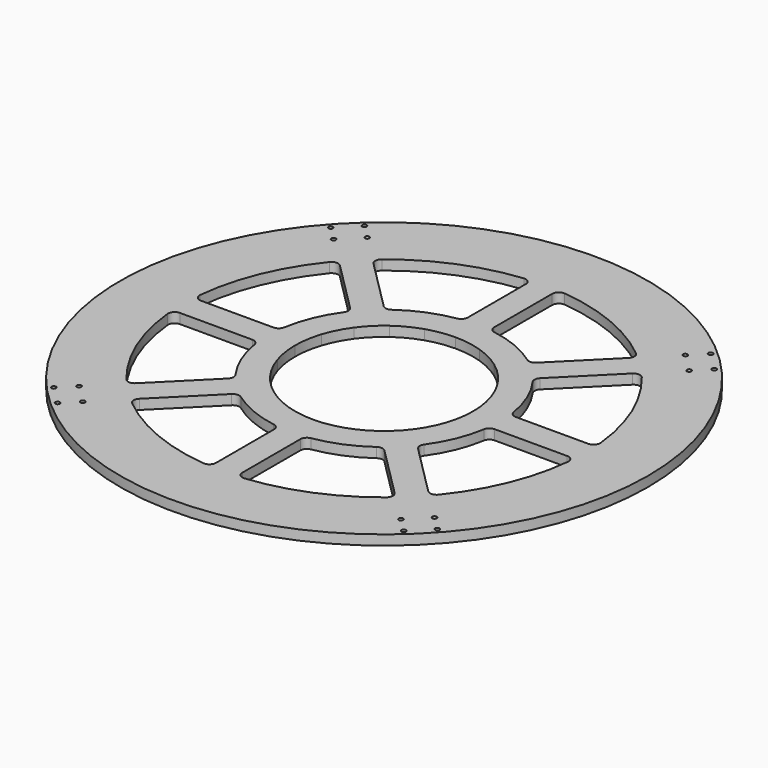
from build123d import *

# Parameters (mm, degrees)
F1_DEPTH = 6.096
F2_D     = 6.5278
F2_DEPTH = 7.62
F2_TIP   = 1.9611489744
F3_D     = 2.9464
F3_DEPTH = 7.62
F3_TIP   = 0.885187864
F4_R     = 254
F5_DEPTH = 9.525
F6_D     = 13.1064
F6_DEPTH = 5.08
F6_TIP   = 3.9375598086
F7_D     = 6.5278
F7_DEPTH = 5.08
F7_TIP   = 1.9611489744
F9_D     = 4.318
F9_DEPTH = 5.08
F9_TIP   = 1.2972580765


with BuildPart() as f1:
    # F0 (on Top) → F1 (new body)
    with BuildSketch(Plane.XY):
        with BuildLine():
            Line((209.55, 0), (218.44, 0))
            ThreePointArc((218.44, 0), (201.8122450818, 83.5933689658), (154.4604052824, 154.4604052824))
            Line((154.4604052824, 154.4604052824), (148.1742259976, 148.1742259976))
            ThreePointArc((148.1742259976, 148.1742259976), (154.4964659286, 141.5699280059), (160.5246130556, 134.6961436098))
            ThreePointArc((160.5246130556, 134.6961436098), (166.247192458, 127.5659574488), (171.6533108808, 120.1929422374))
            ThreePointArc((171.6533108808, 120.1929422374), (199.8513870293, 63.0129002861), (209.55, 0))
        make_face()
        with BuildLine():
            ThreePointArc((154.4604052824, 154.4604052824), (-201.8122450818, -83.5933689658), (218.44, 0))
            Line((218.44, 0), (209.55, 0))
            Line((209.55, 0), (205.74, 0))
            Line((205.74, 0), (199.39, 0))
            Line((199.39, 0), (186.3725, 0))
            Line((186.3725, 0), (186.3725, -6.985))
            ThreePointArc((186.3725, -6.985), (187.1164487758, -8.7810512242), (188.9125, -9.525))
            Line((188.9125, -9.525), (202.841504074, -9.525))
            ThreePointArc((202.841504074, -9.525), (204.6901067558, -10.323084926), (205.3770228749, -12.2158125))
            ThreePointArc((205.3770228749, -12.2158125), (197.0603677414, -59.1283270997), (178.1760665746, -102.87))
            Line((178.1760665746, -102.87), (173.226731392, -100.0125))
            ThreePointArc((173.226731392, -100.0125), (168.6993739487, -107.4733541596), (163.8508876589, -114.7296266811))
            ThreePointArc((163.8508876589, -114.7296266811), (158.6905018918, -121.7675048375), (153.2280397349, -128.5735916276))
            ThreePointArc((153.2280397349, -128.5735916276), (141.4390339068, -141.4390339068), (128.5735916276, -153.2280397349))
            ThreePointArc((128.5735916276, -153.2280397349), (121.7675048375, -158.6905018918), (114.7296266811, -163.8508876589))
            ThreePointArc((114.7296266811, -163.8508876589), (107.4733541596, -168.6993739487), (100.0125, -173.226731392))
            Line((100.0125, -173.226731392), (102.87, -178.1760665746))
            ThreePointArc((102.87, -178.1760665746), (59.1283270997, -197.0603677414), (12.2158125, -205.3770228749))
            ThreePointArc((12.2158125, -205.3770228749), (10.323084926, -204.6901067558), (9.525, -202.841504074))
            Line((9.525, -202.841504074), (9.525, -188.9125))
            ThreePointArc((9.525, -188.9125), (8.7810512242, -187.1164487758), (6.985, -186.3725))
            Line((6.985, -186.3725), (-6.985, -186.3725))
            ThreePointArc((-6.985, -186.3725), (-8.7810512242, -187.1164487758), (-9.525, -188.9125))
            Line((-9.525, -188.9125), (-9.525, -202.841504074))
            ThreePointArc((-9.525, -202.841504074), (-10.323084926, -204.6901067558), (-12.2158125, -205.3770228749))
            ThreePointArc((-12.2158125, -205.3770228749), (-59.1283270997, -197.0603677414), (-102.87, -178.1760665746))
            Line((-102.87, -178.1760665746), (-100.0125, -173.226731392))
            ThreePointArc((-100.0125, -173.226731392), (-107.4733541596, -168.6993739487), (-114.7296266811, -163.8508876589))
            ThreePointArc((-114.7296266811, -163.8508876589), (-121.7675048375, -158.6905018918), (-128.5735916276, -153.2280397349))
            ThreePointArc((-128.5735916276, -153.2280397349), (-141.4390339068, -141.4390339068), (-153.2280397349, -128.5735916276))
            ThreePointArc((-153.2280397349, -128.5735916276), (-158.6905018918, -121.7675048375), (-163.8508876589, -114.7296266811))
            ThreePointArc((-163.8508876589, -114.7296266811), (-168.6993739487, -107.4733541596), (-173.226731392, -100.0125))
            Line((-173.226731392, -100.0125), (-178.1760665746, -102.87))
            ThreePointArc((-178.1760665746, -102.87), (-197.0603677414, -59.1283270997), (-205.3770228749, -12.2158125))
            ThreePointArc((-205.3770228749, -12.2158125), (-204.6901067558, -10.323084926), (-202.841504074, -9.525))
            Line((-202.841504074, -9.525), (-188.9125, -9.525))
            ThreePointArc((-188.9125, -9.525), (-187.1164487758, -8.7810512242), (-186.3725, -6.985))
            Line((-186.3725, -6.985), (-186.3725, 6.985))
            ThreePointArc((-186.3725, 6.985), (-187.1164487758, 8.7810512242), (-188.9125, 9.525))
            Line((-188.9125, 9.525), (-202.841504074, 9.525))
            ThreePointArc((-202.841504074, 9.525), (-204.6901067558, 10.323084926), (-205.3770228749, 12.2158125))
            ThreePointArc((-205.3770228749, 12.2158125), (-197.0603677414, 59.1283270997), (-178.1760665746, 102.87))
            Line((-178.1760665746, 102.87), (-173.226731392, 100.0125))
            ThreePointArc((-173.226731392, 100.0125), (-168.6993739487, 107.4733541596), (-163.8508876589, 114.7296266811))
            ThreePointArc((-163.8508876589, 114.7296266811), (-158.6905018918, 121.7675048375), (-153.2280397349, 128.5735916275))
            ThreePointArc((-153.2280397349, 128.5735916275), (-141.4390339068, 141.4390339068), (-128.5735916276, 153.2280397349))
            ThreePointArc((-128.5735916276, 153.2280397349), (-121.7675048375, 158.6905018918), (-114.7296266811, 163.8508876589))
            ThreePointArc((-114.7296266811, 163.8508876589), (-107.4733541596, 168.6993739487), (-100.0125, 173.226731392))
            Line((-100.0125, 173.226731392), (-102.87, 178.1760665746))
            ThreePointArc((-102.87, 178.1760665746), (-59.1283270997, 197.0603677414), (-12.2158125, 205.3770228749))
            ThreePointArc((-12.2158125, 205.3770228749), (-10.323084926, 204.6901067558), (-9.525, 202.841504074))
            Line((-9.525, 202.841504074), (-9.525, 188.9125))
            ThreePointArc((-9.525, 188.9125), (-8.7810512242, 187.1164487758), (-6.985, 186.3725))
            Line((-6.985, 186.3725), (6.985, 186.3725))
            ThreePointArc((6.985, 186.3725), (8.7810512242, 187.1164487758), (9.525, 188.9125))
            Line((9.525, 188.9125), (9.525, 202.841504074))
            ThreePointArc((9.525, 202.841504074), (10.323084926, 204.6901067558), (12.2158125, 205.3770228749))
            ThreePointArc((12.2158125, 205.3770228749), (59.1283270997, 197.0603677414), (102.87, 178.1760665746))
            Line((102.87, 178.1760665746), (100.0125, 173.226731392))
            ThreePointArc((100.0125, 173.226731392), (107.4733541596, 168.6993739487), (114.7296266811, 163.8508876589))
            Line((114.7296266811, 163.8508876589), (120.1929422374, 171.6533108808))
            ThreePointArc((120.1929422374, 171.6533108808), (127.5659574488, 166.247192458), (134.6961436098, 160.5246130556))
            ThreePointArc((134.6961436098, 160.5246130556), (141.5699280059, 154.4964659286), (148.1742259976, 148.1742259976))
            Line((148.1742259976, 148.1742259976), (154.4604052824, 154.4604052824))
        make_face()
        with BuildLine():
            Line((205.74, 0), (209.55, 0))
            ThreePointArc((209.55, 0), (199.8513870293, 63.0129002861), (171.6533108808, 120.1929422374))
            Line((171.6533108808, 120.1929422374), (163.8508876589, 114.7296266811))
            ThreePointArc((163.8508876589, 114.7296266811), (168.6993739487, 107.4733541596), (173.226731392, 100.0125))
            Line((173.226731392, 100.0125), (178.1760665746, 102.87))
            ThreePointArc((178.1760665746, 102.87), (197.0603677414, 59.1283270997), (205.3770228749, 12.2158125))
            ThreePointArc((205.3770228749, 12.2158125), (204.6901067558, 10.323084926), (202.841504074, 9.525))
            Line((202.841504074, 9.525), (188.9125, 9.525))
            ThreePointArc((188.9125, 9.525), (187.1164487758, 8.7810512242), (186.3725, 6.985))
            Line((186.3725, 6.985), (186.3725, 0))
            Line((186.3725, 0), (199.39, 0))
            Line((199.39, 0), (205.74, 0))
        make_face()
        with BuildLine():
            Line((163.8508876589, 114.7296266811), (171.6533108808, 120.1929422374))
            ThreePointArc((171.6533108808, 120.1929422374), (166.247192458, 127.5659574488), (160.5246130556, 134.6961436098))
            Line((160.5246130556, 134.6961436098), (153.2280397349, 128.5735916276))
            ThreePointArc((153.2280397349, 128.5735916276), (158.6905018918, 121.7675048375), (163.8508876589, 114.7296266811))
        make_face()
        with BuildLine():
            ThreePointArc((160.5246130556, 134.6961436098), (154.4964659286, 141.5699280059), (148.1742259976, 148.1742259976))
            Line((148.1742259976, 148.1742259976), (141.4390339068, 141.4390339068))
            ThreePointArc((141.4390339068, 141.4390339068), (147.4738992954, 135.1349312783), (153.2280397349, 128.5735916276))
            Line((153.2280397349, 128.5735916276), (160.5246130556, 134.6961436098))
        make_face()
        with BuildLine():
            Line((141.4390339068, 141.4390339068), (148.1742259976, 148.1742259976))
            ThreePointArc((148.1742259976, 148.1742259976), (141.5699280059, 154.4964659286), (134.6961436098, 160.5246130556))
            Line((134.6961436098, 160.5246130556), (128.5735916276, 153.2280397349))
            ThreePointArc((128.5735916275, 153.2280397349), (135.1349312783, 147.4738992954), (141.4390339068, 141.4390339068))
        make_face()
        with BuildLine():
            Line((128.5735916276, 153.2280397349), (134.6961436098, 160.5246130556))
            ThreePointArc((134.6961436098, 160.5246130556), (127.5659574488, 166.247192458), (120.1929422374, 171.6533108808))
            Line((120.1929422374, 171.6533108808), (114.7296266811, 163.8508876589))
            ThreePointArc((114.7296266811, 163.8508876589), (121.7675048375, 158.6905018918), (128.5735916275, 153.2280397349))
        make_face()
    extrude(amount=F1_DEPTH)

    # F2
    with Locations(Plane(origin=(0, 0, 0), x_dir=(1, 0, 0), z_dir=(0, 0, -1))):
        with Locations((-171.6533108808, -120.1929422374), (-160.5246130556, -134.6961436098), (-134.6961436098, -160.5246130556), (-120.1929422374, -171.6533108808), (120.1929422374, -171.6533108808), (134.6961436098, -160.5246130556), (160.5246130556, -134.6961436098), (171.6533108808, -120.1929422374), (171.6533108808, 120.1929422374), (160.5246130556, 134.6961436098), (134.6961436098, 160.5246130556), (120.1929422374, 171.6533108808), (-120.1929422374, 171.6533108808), (-134.6961436098, 160.5246130556), (-160.5246130556, 134.6961436098), (-171.6533108808, 120.1929422374)):
            Hole(F2_D / 2, depth=F2_DEPTH)
            with Locations((0, 0, -(F2_DEPTH + F2_TIP / 2))):  # 118° drill point
                Cone(0, F2_D / 2, F2_TIP, mode=Mode.SUBTRACT)

    # F3
    with Locations(Plane(origin=(0, 0, 0), x_dir=(1, 0, 0), z_dir=(0, 0, -1))):
        with Locations((-6.35, -199.39), (-6.35, -189.865), (6.35, -199.39), (6.35, -189.865), (189.865, -6.35), (189.865, 6.35), (199.39, 6.35), (199.39, -6.35), (-199.39, 6.35), (-199.39, -6.35), (-189.865, -6.35), (-189.865, 6.35), (6.35, 199.39), (6.35, 189.865), (-6.35, 189.865), (-6.35, 199.39)):
            Hole(F3_D / 2, depth=F3_DEPTH)
            with Locations((0, 0, -(F3_DEPTH + F3_TIP / 2))):  # 118° drill point
                Cone(0, F3_D / 2, F3_TIP, mode=Mode.SUBTRACT)


with BuildPart() as f5:
    # F4 (on Top) → F5 (new body)
    with BuildSketch(Plane.XY):
        Circle(F4_R)
        with BuildLine():
            ThreePointArc((145.9291619674, 145.9291619674), (190.665638522, 78.9762933543), (206.375, 0))
            ThreePointArc((206.375, 0), (145.9291619674, -145.9291619674), (0, -206.375))
            ThreePointArc((0, -206.375), (-145.9291619674, -145.9291619674), (-206.375, 0))
            ThreePointArc((-206.375, 0), (-145.9291619674, 145.9291619674), (0, 206.375))
            ThreePointArc((0, 206.375), (6.3530109085, 206.2771918497), (12.7, 205.983860108))
            ThreePointArc((12.7, 205.983860108), (78.9762933543, 190.665638522), (136.6723281763, 154.6328404184))
            ThreePointArc((136.6723281763, 154.6328404184), (141.3677440667, 150.3522582554), (145.9291619674, 145.9291619674))
        make_face(mode=Mode.SUBTRACT)
        with BuildLine():
            ThreePointArc((0, 206.375), (-145.9291619674, 145.9291619674), (-206.375, 0))
            Line((-206.375, 0), (-99.10826, 0))
            ThreePointArc((-99.10826, 0), (-97.8880728587, 15.5039476342), (-94.2575564917, 30.6261366229))
            ThreePointArc((-94.2575564917, 30.6261366229), (-88.306106261, 44.9942084857), (-80.1802666229, 58.2543736084))
            ThreePointArc((-80.1802666229, 58.2543736084), (-70.0801227176, 70.0801227176), (-58.2543736084, 80.1802666229))
            ThreePointArc((-58.2543736084, 80.1802666229), (-44.9942084857, 88.306106261), (-30.6261366229, 94.2575564917))
            ThreePointArc((-30.6261366229, 94.2575564917), (-15.5039476342, 97.8880728587), (0, 99.10826))
            Line((0, 99.10826), (0, 206.375))
        make_face()
        with BuildLine():
            ThreePointArc((-186.3538385035, 12.7), (-191.0667512558, 14.794303419), (-192.6709177748, 19.6957627119))
            ThreePointArc((-192.6709177748, 19.6957627119), (-178.9323684591, 74.1162137633), (-150.1659198702, 122.3119051218))
            ThreePointArc((-150.1659198702, 122.3119051218), (-145.5657477427, 124.6434432018), (-140.7523190271, 122.7918067849))
            Line((-140.7523190271, 122.7918067849), (-91.4377357886, 73.4772235464))
            ThreePointArc((-91.4377357886, 73.4772235464), (-89.5986659677, 69.5006655182), (-90.7725582831, 65.2796267373))
            ThreePointArc((-90.7725582831, 65.2796267373), (-103.2973629797, 42.7871687036), (-110.3455582469, 18.0262247684))
            ThreePointArc((-110.3455582469, 18.0262247684), (-112.5002161759, 14.2114324061), (-116.6124860649, 12.7))
            Line((-116.6124860649, 12.7), (-186.3538385035, 12.7))
        make_face(mode=Mode.SUBTRACT)
        with BuildLine():
            ThreePointArc((-122.7918067849, 140.7523190271), (-124.6434432018, 145.5657477427), (-122.3119051218, 150.1659198702))
            ThreePointArc((-122.3119051218, 150.1659198702), (-74.1162137633, 178.9323684591), (-19.6957627119, 192.6709177748))
            ThreePointArc((-19.6957627119, 192.6709177748), (-14.794303419, 191.0667512558), (-12.7, 186.3538385035))
            Line((-12.7, 186.3538385035), (-12.7, 116.6124860649))
            ThreePointArc((-12.7, 116.6124860649), (-14.2114324061, 112.5002161759), (-18.0262247684, 110.3455582469))
            ThreePointArc((-18.0262247684, 110.3455582469), (-42.7871687036, 103.2973629797), (-65.2796267373, 90.7725582831))
            ThreePointArc((-65.2796267373, 90.7725582831), (-69.5006655182, 89.5986659677), (-73.4772235464, 91.4377357886))
            Line((-73.4772235464, 91.4377357886), (-122.7918067849, 140.7523190271))
        make_face(mode=Mode.SUBTRACT)
        with BuildLine():
            Line((70.0801227176, 70.0801227176), (145.9291619674, 145.9291619674))
            ThreePointArc((145.9291619674, 145.9291619674), (141.3677440667, 150.3522582554), (136.6723281763, 154.6328404184))
            ThreePointArc((136.6723281763, 154.6328404184), (78.9762933543, 190.665638522), (12.7, 205.983860108))
            ThreePointArc((12.7, 205.983860108), (6.3530109085, 206.2771918497), (0, 206.375))
            Line((0, 206.375), (0, 99.10826))
            ThreePointArc((0, 99.10826), (15.5039476342, 97.8880728587), (30.6261366229, 94.2575564917))
            ThreePointArc((30.6261366229, 94.2575564917), (44.9942084857, 88.306106261), (58.2543736084, 80.1802666229))
            ThreePointArc((58.2543736084, 80.1802666229), (64.3656660304, 75.3625121442), (70.0801227176, 70.0801227176))
        make_face()
        with BuildLine():
            ThreePointArc((19.6957627119, 192.6709177748), (74.1162137633, 178.9323684591), (122.3119051218, 150.1659198702))
            ThreePointArc((122.3119051218, 150.1659198702), (124.6434432018, 145.5657477427), (122.7918067849, 140.7523190271))
            Line((122.7918067849, 140.7523190271), (73.4772235464, 91.4377357886))
            ThreePointArc((73.4772235464, 91.4377357886), (69.5006655182, 89.5986659677), (65.2796267373, 90.7725582831))
            ThreePointArc((65.2796267373, 90.7725582831), (42.7871687036, 103.2973629797), (18.0262247684, 110.3455582469))
            ThreePointArc((18.0262247684, 110.3455582469), (14.2114324061, 112.5002161759), (12.7, 116.6124860649))
            Line((12.7, 116.6124860649), (12.7, 186.3538385035))
            ThreePointArc((12.7, 186.3538385035), (14.794303419, 191.0667512558), (19.6957627119, 192.6709177748))
        make_face(mode=Mode.SUBTRACT)
        with BuildLine():
            ThreePointArc((-80.1802666229, 58.2543736084), (-88.306106261, 44.9942084857), (-94.2575564917, 30.6261366229))
            Line((-94.2575564917, 30.6261366229), (-81.5293198594, 26.4904818428))
            ThreePointArc((-81.5293198594, 26.4904818428), (-76.381534286, 38.9183355902), (-69.3529818428, 50.3878907528))
            Line((-69.3529818428, 50.3878907528), (-80.1802666229, 58.2543736084))
        make_face()
        with BuildLine():
            Line((-80.1802666229, 58.2543736084), (-69.3529818428, 50.3878907528))
            ThreePointArc((-69.3529818428, 50.3878907528), (-60.6167288172, 60.6167288172), (-50.3878907528, 69.3529818428))
            Line((-50.3878907528, 69.3529818428), (-58.2543736084, 80.1802666229))
            ThreePointArc((-58.2543736084, 80.1802666229), (-70.0801227176, 70.0801227176), (-80.1802666229, 58.2543736084))
        make_face()
        with BuildLine():
            Line((-58.2543736084, 80.1802666229), (-50.3878907528, 69.3529818428))
            ThreePointArc((-50.3878907528, 69.3529818428), (-38.9183355902, 76.381534286), (-26.4904818428, 81.5293198594))
            Line((-26.4904818428, 81.5293198594), (-30.6261366229, 94.2575564917))
            ThreePointArc((-30.6261366229, 94.2575564917), (-44.9942084857, 88.306106261), (-58.2543736084, 80.1802666229))
        make_face()
        with BuildLine():
            Line((0, 85.725), (0, 99.10826))
            ThreePointArc((0, 99.10826), (-15.5039476342, 97.8880728587), (-30.6261366229, 94.2575564917))
            Line((-30.6261366229, 94.2575564917), (-26.4904818428, 81.5293198594))
            ThreePointArc((-26.4904818428, 81.5293198594), (-13.4103445156, 84.6695829975), (0, 85.725))
        make_face()
        with BuildLine():
            Line((26.4904818428, 81.5293198594), (30.6261366229, 94.2575564917))
            ThreePointArc((30.6261366229, 94.2575564917), (15.5039476342, 97.8880728587), (0, 99.10826))
            Line((0, 99.10826), (0, 85.725))
            ThreePointArc((0, 85.725), (13.4103445156, 84.6695829975), (26.4904818428, 81.5293198594))
        make_face()
        with BuildLine():
            Line((50.3878907528, 69.3529818428), (58.2543736084, 80.1802666229))
            ThreePointArc((58.2543736084, 80.1802666229), (44.9942084857, 88.306106261), (30.6261366229, 94.2575564917))
            Line((30.6261366229, 94.2575564917), (26.4904818428, 81.5293198594))
            ThreePointArc((26.4904818428, 81.5293198594), (38.9183355902, 76.381534286), (50.3878907528, 69.3529818428))
        make_face()
        with BuildLine():
            ThreePointArc((80.1802666229, 58.2543736084), (75.3625121442, 64.3656660304), (70.0801227176, 70.0801227176))
            ThreePointArc((70.0801227176, 70.0801227176), (64.3656660304, 75.3625121442), (58.2543736084, 80.1802666229))
            Line((58.2543736084, 80.1802666229), (50.3878907528, 69.3529818428))
            ThreePointArc((50.3878907528, 69.3529818428), (60.6167288172, 60.6167288172), (69.3529818428, 50.3878907528))
            Line((69.3529818428, 50.3878907528), (80.1802666229, 58.2543736084))
        make_face()
        with BuildLine():
            Line((81.5293198594, 26.4904818428), (94.2575564917, 30.6261366229))
            ThreePointArc((94.2575564917, 30.6261366229), (88.306106261, 44.9942084857), (80.1802666229, 58.2543736084))
            Line((80.1802666229, 58.2543736084), (69.3529818428, 50.3878907528))
            ThreePointArc((69.3529818428, 50.3878907528), (76.381534286, 38.9183355902), (81.5293198594, 26.4904818428))
        make_face()
        with BuildLine():
            Line((85.725, 0), (99.10826, 0))
            ThreePointArc((99.10826, 0), (97.8880728587, 15.5039476342), (94.2575564917, 30.6261366229))
            Line((94.2575564917, 30.6261366229), (81.5293198594, 26.4904818428))
            ThreePointArc((81.5293198594, 26.4904818428), (84.6695829975, 13.4103445156), (85.725, 0))
        make_face()
        with BuildLine():
            ThreePointArc((94.2575564917, -30.6261366229), (97.8880728587, -15.5039476342), (99.10826, 0))
            Line((99.10826, 0), (85.725, 0))
            ThreePointArc((85.725, 0), (84.6695829975, -13.4103445156), (81.5293198594, -26.4904818428))
            Line((81.5293198594, -26.4904818428), (94.2575564917, -30.6261366229))
        make_face()
        with BuildLine():
            ThreePointArc((80.1802666229, -58.2543736084), (88.306106261, -44.9942084857), (94.2575564917, -30.6261366229))
            Line((94.2575564917, -30.6261366229), (81.5293198594, -26.4904818428))
            ThreePointArc((81.5293198594, -26.4904818428), (76.381534286, -38.9183355902), (69.3529818428, -50.3878907528))
            Line((69.3529818428, -50.3878907528), (80.1802666229, -58.2543736084))
        make_face()
        with BuildLine():
            ThreePointArc((58.2543736084, -80.1802666229), (70.0801227176, -70.0801227176), (80.1802666229, -58.2543736084))
            Line((80.1802666229, -58.2543736084), (69.3529818428, -50.3878907528))
            ThreePointArc((69.3529818428, -50.3878907528), (60.6167288172, -60.6167288172), (50.3878907528, -69.3529818428))
            Line((50.3878907528, -69.3529818428), (58.2543736084, -80.1802666229))
        make_face()
        with BuildLine():
            Line((26.4904818428, -81.5293198594), (30.6261366229, -94.2575564917))
            ThreePointArc((30.6261366229, -94.2575564917), (44.9942084857, -88.306106261), (58.2543736084, -80.1802666229))
            Line((58.2543736084, -80.1802666229), (50.3878907528, -69.3529818428))
            ThreePointArc((50.3878907528, -69.3529818428), (38.9183355902, -76.381534286), (26.4904818428, -81.5293198594))
        make_face()
        with BuildLine():
            Line((0, -85.725), (0, -99.10826))
            ThreePointArc((0, -99.10826), (15.5039476342, -97.8880728587), (30.6261366229, -94.2575564917))
            Line((30.6261366229, -94.2575564917), (26.4904818428, -81.5293198594))
            ThreePointArc((26.4904818428, -81.5293198594), (13.4103445156, -84.6695829975), (0, -85.725))
        make_face()
        with BuildLine():
            ThreePointArc((-30.6261366229, -94.2575564917), (-15.5039476342, -97.8880728587), (0, -99.10826))
            Line((0, -99.10826), (0, -85.725))
            ThreePointArc((0, -85.725), (-13.4103445156, -84.6695829975), (-26.4904818428, -81.5293198594))
            Line((-26.4904818428, -81.5293198594), (-30.6261366229, -94.2575564917))
        make_face()
        with BuildLine():
            ThreePointArc((-58.2543736084, -80.1802666229), (-44.9942084857, -88.306106261), (-30.6261366229, -94.2575564917))
            Line((-30.6261366229, -94.2575564917), (-26.4904818428, -81.5293198594))
            ThreePointArc((-26.4904818428, -81.5293198594), (-38.9183355902, -76.381534286), (-50.3878907528, -69.3529818428))
            Line((-50.3878907528, -69.3529818428), (-58.2543736084, -80.1802666229))
        make_face()
        with BuildLine():
            ThreePointArc((-80.1802666229, -58.2543736084), (-70.0801227176, -70.0801227176), (-58.2543736084, -80.1802666229))
            Line((-58.2543736084, -80.1802666229), (-50.3878907528, -69.3529818428))
            ThreePointArc((-50.3878907528, -69.3529818428), (-60.6167288172, -60.6167288172), (-69.3529818428, -50.3878907528))
            Line((-69.3529818428, -50.3878907528), (-80.1802666229, -58.2543736084))
        make_face()
        with BuildLine():
            Line((-81.5293198594, -26.4904818428), (-94.2575564917, -30.6261366229))
            ThreePointArc((-94.2575564917, -30.6261366229), (-88.306106261, -44.9942084857), (-80.1802666229, -58.2543736084))
            Line((-80.1802666229, -58.2543736084), (-69.3529818428, -50.3878907528))
            ThreePointArc((-69.3529818428, -50.3878907528), (-76.381534286, -38.9183355902), (-81.5293198594, -26.4904818428))
        make_face()
        with BuildLine():
            Line((-85.725, 0), (-99.10826, 0))
            ThreePointArc((-99.10826, 0), (-97.8880728587, -15.5039476342), (-94.2575564917, -30.6261366229))
            Line((-94.2575564917, -30.6261366229), (-81.5293198594, -26.4904818428))
            ThreePointArc((-81.5293198594, -26.4904818428), (-84.6695829975, -13.4103445156), (-85.725, 0))
        make_face()
        with BuildLine():
            ThreePointArc((-94.2575564917, 30.6261366229), (-97.8880728587, 15.5039476342), (-99.10826, 0))
            Line((-99.10826, 0), (-85.725, 0))
            ThreePointArc((-85.725, 0), (-84.6695829975, 13.4103445156), (-81.5293198594, 26.4904818428))
            Line((-81.5293198594, 26.4904818428), (-94.2575564917, 30.6261366229))
        make_face()
        with BuildLine():
            ThreePointArc((-206.375, 0), (-145.9291619674, -145.9291619674), (0, -206.375))
            Line((0, -206.375), (0, -99.10826))
            ThreePointArc((0, -99.10826), (-15.5039476342, -97.8880728587), (-30.6261366229, -94.2575564917))
            ThreePointArc((-30.6261366229, -94.2575564917), (-44.9942084857, -88.306106261), (-58.2543736084, -80.1802666229))
            ThreePointArc((-58.2543736084, -80.1802666229), (-70.0801227176, -70.0801227176), (-80.1802666229, -58.2543736084))
            ThreePointArc((-80.1802666229, -58.2543736084), (-88.306106261, -44.9942084857), (-94.2575564917, -30.6261366229))
            ThreePointArc((-94.2575564917, -30.6261366229), (-97.8880728587, -15.5039476342), (-99.10826, 0))
            Line((-99.10826, 0), (-206.375, 0))
        make_face()
        with BuildLine():
            ThreePointArc((-12.7, -186.3538385035), (-14.794303419, -191.0667512558), (-19.6957627119, -192.6709177748))
            ThreePointArc((-19.6957627119, -192.6709177748), (-74.1162137633, -178.9323684591), (-122.3119051218, -150.1659198702))
            ThreePointArc((-122.3119051218, -150.1659198702), (-124.6434432018, -145.5657477427), (-122.7918067849, -140.7523190271))
            Line((-122.7918067849, -140.7523190271), (-73.4772235464, -91.4377357886))
            ThreePointArc((-73.4772235464, -91.4377357886), (-69.5006655182, -89.5986659677), (-65.2796267373, -90.7725582831))
            ThreePointArc((-65.2796267373, -90.7725582831), (-42.7871687036, -103.2973629797), (-18.0262247684, -110.3455582469))
            ThreePointArc((-18.0262247684, -110.3455582469), (-14.2114324061, -112.5002161759), (-12.7, -116.6124860649))
            Line((-12.7, -116.6124860649), (-12.7, -186.3538385035))
        make_face(mode=Mode.SUBTRACT)
        with BuildLine():
            ThreePointArc((-140.7523190271, -122.7918067849), (-145.5657477427, -124.6434432018), (-150.1659198702, -122.3119051218))
            ThreePointArc((-150.1659198702, -122.3119051218), (-178.9323684591, -74.1162137633), (-192.6709177748, -19.6957627119))
            ThreePointArc((-192.6709177748, -19.6957627119), (-191.0667512558, -14.794303419), (-186.3538385035, -12.7))
            Line((-186.3538385035, -12.7), (-116.6124860649, -12.7))
            ThreePointArc((-116.6124860649, -12.7), (-112.5002161759, -14.2114324061), (-110.3455582469, -18.0262247684))
            ThreePointArc((-110.3455582469, -18.0262247684), (-103.2973629797, -42.7871687036), (-90.7725582831, -65.2796267373))
            ThreePointArc((-90.7725582831, -65.2796267373), (-89.5986659677, -69.5006655182), (-91.4377357886, -73.4772235464))
            Line((-91.4377357886, -73.4772235464), (-140.7523190271, -122.7918067849))
        make_face(mode=Mode.SUBTRACT)
        with BuildLine():
            ThreePointArc((0, -206.375), (145.9291619674, -145.9291619674), (206.375, 0))
            Line((206.375, 0), (99.10826, 0))
            ThreePointArc((99.10826, 0), (97.8880728587, -15.5039476342), (94.2575564917, -30.6261366229))
            ThreePointArc((94.2575564917, -30.6261366229), (88.306106261, -44.9942084857), (80.1802666229, -58.2543736084))
            ThreePointArc((80.1802666229, -58.2543736084), (70.0801227176, -70.0801227176), (58.2543736084, -80.1802666229))
            ThreePointArc((58.2543736084, -80.1802666229), (44.9942084857, -88.306106261), (30.6261366229, -94.2575564917))
            ThreePointArc((30.6261366229, -94.2575564917), (15.5039476342, -97.8880728587), (0, -99.10826))
            Line((0, -99.10826), (0, -206.375))
        make_face()
        with BuildLine():
            ThreePointArc((122.7918067849, -140.7523190271), (124.6434432018, -145.5657477427), (122.3119051218, -150.1659198702))
            ThreePointArc((122.3119051218, -150.1659198702), (74.1162137633, -178.9323684591), (19.6957627119, -192.6709177748))
            ThreePointArc((19.6957627119, -192.6709177748), (14.794303419, -191.0667512558), (12.7, -186.3538385035))
            Line((12.7, -186.3538385035), (12.7, -116.6124860649))
            ThreePointArc((12.7, -116.6124860649), (14.2114324061, -112.5002161759), (18.0262247684, -110.3455582469))
            ThreePointArc((18.0262247684, -110.3455582469), (42.7871687036, -103.2973629797), (65.2796267373, -90.7725582831))
            ThreePointArc((65.2796267373, -90.7725582831), (69.5006655182, -89.5986659677), (73.4772235464, -91.4377357886))
            Line((73.4772235464, -91.4377357886), (122.7918067849, -140.7523190271))
        make_face(mode=Mode.SUBTRACT)
        with BuildLine():
            ThreePointArc((186.3538385035, -12.7), (191.0667512558, -14.794303419), (192.6709177748, -19.6957627119))
            ThreePointArc((192.6709177748, -19.6957627119), (178.9323684591, -74.1162137633), (150.1659198702, -122.3119051218))
            ThreePointArc((150.1659198702, -122.3119051218), (145.5657477427, -124.6434432018), (140.7523190271, -122.7918067849))
            Line((140.7523190271, -122.7918067849), (91.4377357886, -73.4772235464))
            ThreePointArc((91.4377357886, -73.4772235464), (89.5986659677, -69.5006655182), (90.7725582831, -65.2796267373))
            ThreePointArc((90.7725582831, -65.2796267373), (103.2973629797, -42.7871687036), (110.3455582469, -18.0262247684))
            ThreePointArc((110.3455582469, -18.0262247684), (112.5002161759, -14.2114324061), (116.6124860649, -12.7))
            Line((116.6124860649, -12.7), (186.3538385035, -12.7))
        make_face(mode=Mode.SUBTRACT)
        with BuildLine():
            Line((99.10826, 0), (206.375, 0))
            ThreePointArc((206.375, 0), (190.665638522, 78.9762933543), (145.9291619674, 145.9291619674))
            Line((145.9291619674, 145.9291619674), (70.0801227176, 70.0801227176))
            ThreePointArc((70.0801227176, 70.0801227176), (75.3625121442, 64.3656660304), (80.1802666229, 58.2543736084))
            ThreePointArc((80.1802666229, 58.2543736084), (88.306106261, 44.9942084857), (94.2575564917, 30.6261366229))
            ThreePointArc((94.2575564917, 30.6261366229), (97.8880728587, 15.5039476342), (99.10826, 0))
        make_face()
        with BuildLine():
            ThreePointArc((140.7523190271, 122.7918067849), (145.5657477427, 124.6434432018), (150.1659198702, 122.3119051218))
            ThreePointArc((150.1659198702, 122.3119051218), (178.9323684591, 74.1162137633), (192.6709177748, 19.6957627119))
            ThreePointArc((192.6709177748, 19.6957627119), (191.0667512558, 14.794303419), (186.3538385035, 12.7))
            Line((186.3538385035, 12.7), (116.6124860649, 12.7))
            ThreePointArc((116.6124860649, 12.7), (112.5002161759, 14.2114324061), (110.3455582469, 18.0262247684))
            ThreePointArc((110.3455582469, 18.0262247684), (103.2973629797, 42.7871687036), (90.7725582831, 65.2796267373))
            ThreePointArc((90.7725582831, 65.2796267373), (89.5986659677, 69.5006655182), (91.4377357886, 73.4772235464))
            Line((91.4377357886, 73.4772235464), (140.7523190271, 122.7918067849))
        make_face(mode=Mode.SUBTRACT)
    extrude(amount=F5_DEPTH)

    # F6
    with Locations(Plane(origin=(0, 0, 0), x_dir=(1, 0, 0), z_dir=(0, 0, -1))):
        with Locations((-206.375, 0), (0, 206.375), (206.375, 0), (0, -206.375)):
            Hole(F6_D / 2, depth=F6_DEPTH)
            with Locations((0, 0, -(F6_DEPTH + F6_TIP / 2))):  # 118° drill point
                Cone(0, F6_D / 2, F6_TIP, mode=Mode.SUBTRACT)

    # F7
    with Locations(Plane(origin=(0, 0, 0), x_dir=(1, 0, 0), z_dir=(0, 0, -1))):
        with Locations((0, -99.10826), (-30.6261366229, -94.2575564917), (-58.2543736084, -80.1802666229), (-80.1802666229, -58.2543736084), (-94.2575564917, -30.6261366229), (-99.10826, 0), (-94.2575564917, 30.6261366229), (-80.1802666229, 58.2543736084), (-58.2543736084, 80.1802666229), (-30.6261366229, 94.2575564917), (0, 99.10826), (30.6261366229, 94.2575564917), (58.2543736084, 80.1802666229), (80.1802666229, 58.2543736084), (94.2575564917, 30.6261366229), (99.10826, 0), (94.2575564917, -30.6261366229), (80.1802666229, -58.2543736084), (58.2543736084, -80.1802666229), (30.6261366229, -94.2575564917)):
            Hole(F7_D / 2, depth=F7_DEPTH)
            with Locations((0, 0, -(F7_DEPTH + F7_TIP / 2))):  # 118° drill point
                Cone(0, F7_D / 2, F7_TIP, mode=Mode.SUBTRACT)

    # F9
    with Locations(Plane.XY.offset(9.525)):
        with Locations((-184.544263288, 166.5837510458), (-166.5837510458, 184.544263288), (-153.1133668642, 171.0738791064), (-171.0738791064, 153.1133668642), (153.1133668642, 171.0738791064), (166.5837510458, 184.544263288), (184.544263288, 166.5837510458), (171.0738791064, 153.1133668642), (166.5837510458, -184.544263288), (184.544263288, -166.5837510458), (171.0738791064, -153.1133668642), (153.1133668642, -171.0738791064), (-166.5837510458, -184.544263288), (-153.1133668642, -171.0738791064), (-171.0738791064, -153.1133668642), (-184.544263288, -166.5837510458)):
            Hole(F9_D / 2, depth=F9_DEPTH)
            with Locations((0, 0, -(F9_DEPTH + F9_TIP / 2))):  # 118° drill point
                Cone(0, F9_D / 2, F9_TIP, mode=Mode.SUBTRACT)


solid = Compound([f1.part, f5.part])
